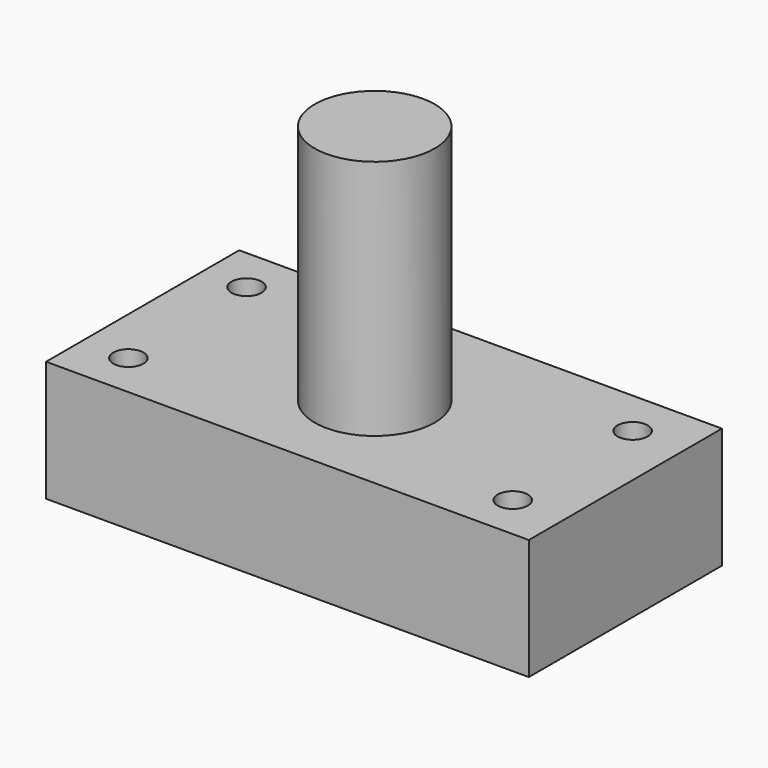
from build123d import *

# Parameters (mm, degrees)
F0_W     = 101.6
F0_H     = 50.8
F1_DEPTH = 25.4
F3_R     = 12.626105
F4_DEPTH = 50.8
F5_D     = 6.35


with BuildPart() as f1:
    # F0 (on Top) → F1 (new body)
    with BuildSketch(Plane.XY):
        with Locations((0, 2.451474)):
            Rectangle(F0_W, F0_H)
        with Locations((0, 2.451474)):
            Rectangle(F0_W, F0_H)
    extrude(amount=F1_DEPTH)

    # F3 (on face) → F4 (join)
    with BuildSketch(Plane.XY.offset(25.4)):
        Circle(F3_R)
    extrude(amount=F4_DEPTH)

    # F5 (through all)
    with Locations(Plane.XY.offset(25.4)):
        with Locations((-41.046023, -13.491523), (39.856285, -13.491523), (39.856285, 18.040607), (-41.640893, 18.33808)):
            Hole(F5_D / 2)


solid = f1.part
